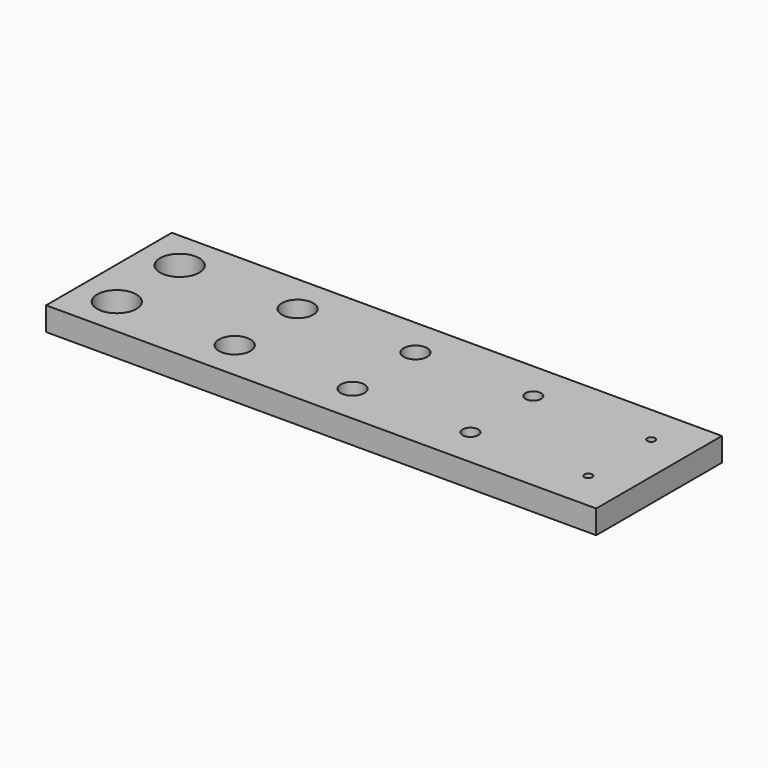
from build123d import *

# Parameters (mm, degrees)
SKETCH_W      = 70
SKETCH_H      = 20
PAD_DEPTH     = 3
SKETCH001_R   = 2.5
SKETCH001_R_2 = 2
SKETCH001_R_3 = 1.5
SKETCH001_R_4 = 1
SKETCH001_R_5 = 0.5
POCKET_DEPTH  = 148.72677


with BuildPart() as part:
    # Sketch → Pad (new body)
    with BuildSketch(Plane.XY):
        Rectangle(SKETCH_W, SKETCH_H)
    extrude(amount=PAD_DEPTH)

    # Sketch001 (on Face6 of Pad) → Pocket (cut, through all)
    with BuildSketch(Plane.XY.offset(3)):
        with Locations((-30, 5)):
            Circle(SKETCH001_R)
        with Locations((-15, 5)):
            Circle(SKETCH001_R_2)
        with Locations((0, 5)):
            Circle(SKETCH001_R_3)
        with Locations((15, 5)):
            Circle(SKETCH001_R_4)
        with Locations((30, 5)):
            Circle(SKETCH001_R_5)
    pocket = extrude(amount=-POCKET_DEPTH, mode=Mode.SUBTRACT)

    # Mirrored: Pocket across XZ
    add(pocket.mirror(Plane.XZ), mode=Mode.SUBTRACT)


solid = part.part
